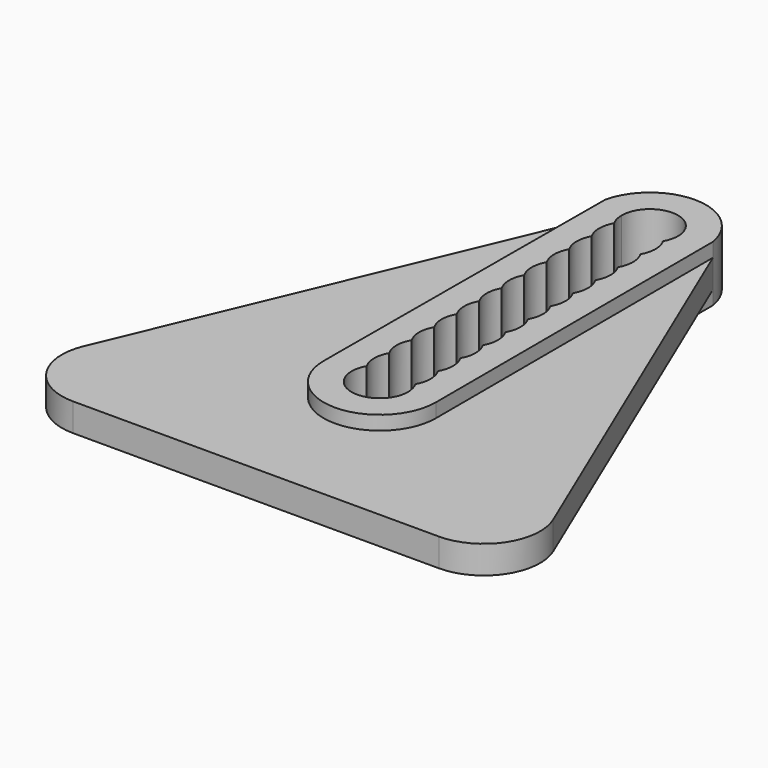
from build123d import *

# Parameters (mm, degrees)
F1_DEPTH = 25.4
F2_DEPTH = 12.7


with BuildPart() as f1:
    # F0 (on Top) → F1 (new body, symmetric)
    with BuildSketch(Plane.XY):
        with BuildLine():
            Line((50.947822, -108.578242), (50.339073, 206.755893))
            ThreePointArc((50.339073, 206.755893), (1.489235, 249.069553), (-49.743111, 209.674131))
            Line((-49.743111, 209.674131), (-50.947822, -108.578242))
            ThreePointArc((-50.947822, -108.578242), (0, -159.526063), (50.947822, -108.578242))
        make_face()
        with BuildLine():
            ThreePointArc((22.125062, -95.804331), (0, -134.126063), (-22.125062, -95.804331))
            ThreePointArc((-22.125062, -95.804331), (-25.547822, -83.03042), (-22.125062, -70.256509))
            ThreePointArc((-22.125062, -70.256509), (-25.547822, -57.482598), (-22.125062, -44.708688))
            ThreePointArc((-22.125062, -44.708688), (-25.547822, -31.934777), (-22.125062, -19.160866))
            ThreePointArc((-22.125062, -19.160866), (-25.547822, -6.386955), (-22.125062, 6.386955))
            ThreePointArc((-22.125062, 6.386955), (-25.547822, 19.160866), (-22.125062, 31.934777))
            ThreePointArc((-22.125062, 31.934777), (-25.547822, 44.708688), (-22.125062, 57.482598))
            ThreePointArc((-22.125062, 57.482598), (-25.547822, 70.256509), (-22.125062, 83.03042))
            ThreePointArc((-22.125062, 83.03042), (-25.547822, 95.804331), (-22.125062, 108.578242))
            ThreePointArc((-22.125062, 108.578242), (-25.547822, 121.352152), (-22.125062, 134.126063))
            ThreePointArc((-22.125062, 134.126063), (-25.547822, 146.899974), (-22.125062, 159.673885))
            ThreePointArc((-22.125062, 159.673885), (-25.547822, 172.447795), (-22.125062, 185.221706))
            ThreePointArc((-22.125062, 185.221706), (-24.677301, 191.383354), (-25.547822, 197.995617))
            ThreePointArc((-25.547822, 197.995617), (0, 223.543438), (25.547822, 197.995617))
            ThreePointArc((25.547822, 197.995617), (24.677301, 191.383354), (22.125062, 185.221706))
            ThreePointArc((22.125062, 185.221706), (25.547822, 172.447795), (22.125062, 159.673885))
            ThreePointArc((22.125062, 159.673885), (25.547822, 146.899974), (22.125062, 134.126063))
            ThreePointArc((22.125062, 134.126063), (25.547822, 121.352152), (22.125062, 108.578242))
            ThreePointArc((22.125062, 108.578242), (25.547822, 95.804331), (22.125062, 83.03042))
            ThreePointArc((22.125062, 83.03042), (25.547822, 70.256509), (22.125062, 57.482598))
            ThreePointArc((22.125062, 57.482598), (25.547822, 44.708688), (22.125062, 31.934777))
            ThreePointArc((22.125062, 31.934777), (25.547822, 19.160866), (22.125062, 6.386955))
            ThreePointArc((22.125062, 6.386955), (25.547822, -6.386955), (22.125062, -19.160866))
            ThreePointArc((22.125062, -19.160866), (25.547822, -31.934777), (22.125062, -44.708688))
            ThreePointArc((22.125062, -44.708688), (25.547822, -57.482598), (22.125062, -70.256509))
            ThreePointArc((22.125062, -70.256509), (25.547822, -83.03042), (22.125062, -95.804331))
        make_face(mode=Mode.SUBTRACT)
    extrude(amount=F1_DEPTH, both=True)

    # F0 (on Top) → F2 (join, symmetric)
    with BuildSketch(Plane.XY):
        with BuildLine():
            Line((-166.06084, -249.09126), (166.06084, -249.09126))
            ThreePointArc((166.06084, -249.09126), (208.650846, -226.224257), (213.119958, -178.09074))
            Line((213.119958, -178.09074), (50.339073, 206.755893))
            Line((50.339073, 206.755893), (50.947822, -108.578242))
            ThreePointArc((50.947822, -108.578242), (0, -159.526063), (-50.947822, -108.578242))
            Line((-50.947822, -108.578242), (-49.743111, 209.674131))
            Line((-49.743111, 209.674131), (-213.147723, -178.156509))
            ThreePointArc((-213.147723, -178.156509), (-208.631116, -226.254003), (-166.06084, -249.09126))
        make_face()
    extrude(amount=F2_DEPTH, both=True)


solid = f1.part
